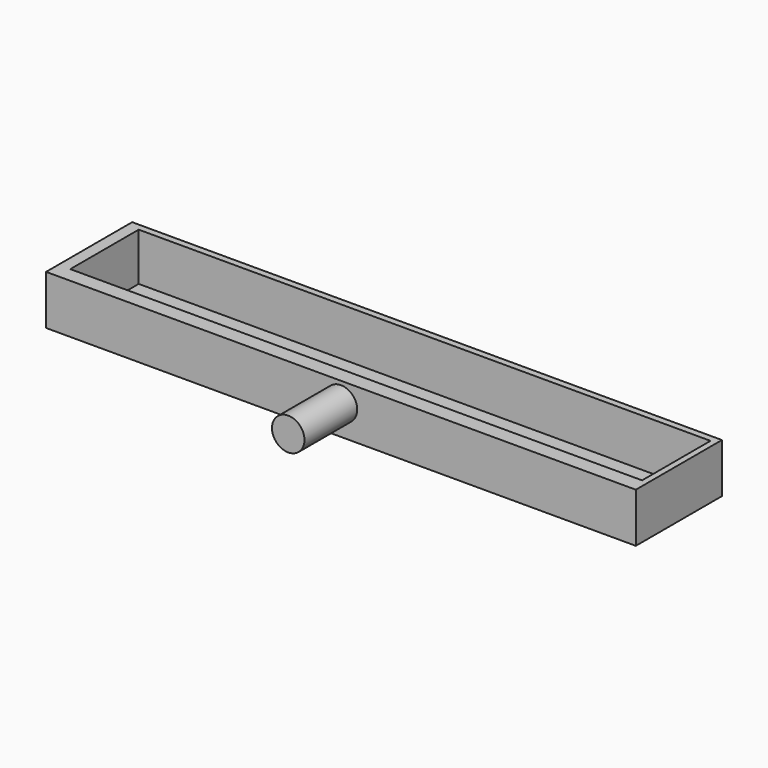
from build123d import *

# Parameters (mm, degrees)
F0_W     = 90.9192115068
F0_H     = 16.5890082717
F1_DEPTH = 7.62
F3_R     = 2.5036388288
F4_DEPTH = 10.16
F2_W     = 88.1531853229
F2_H     = 13.1842046976
F5_DEPTH = 7.366


with BuildPart() as f1:
    # F0 (on Top) → F1 (new body)
    with BuildSketch(Plane.XY):
        with Locations((-14.278691262, -52.1163344383)):
            Rectangle(F0_W, F0_H)
    extrude(amount=F1_DEPTH)

    # F3 (on face) → F4 (join)
    with BuildSketch(Plane.XZ.offset(60.4108385742)):
        with Locations((-14.278691262, 4.5239902101)):
            Circle(F3_R)
    extrude(amount=F4_DEPTH)

    # F2 (on face) → F5 (cut)
    with BuildSketch(Plane.XY.offset(7.62)):
        with Locations((-13.8304857537, -51.4442324638)):
            Rectangle(F2_W, F2_H)
    extrude(amount=-F5_DEPTH, mode=Mode.SUBTRACT)


solid = f1.part
